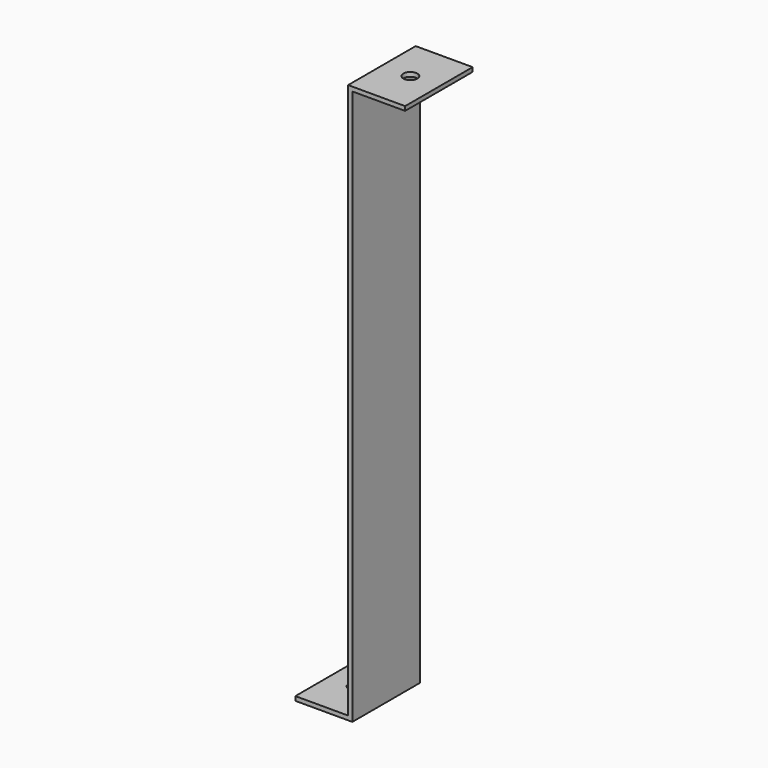
from build123d import *

# Parameters (mm, degrees)
F1_DEPTH   = 20
F4_D       = 6.6
F4_ON_F3_D = 6.6


with BuildPart() as f1:
    # F0 (on Front) → F1 (new body, symmetric)
    with BuildSketch(Plane.XZ):
        Polygon((0, -47.9232184589), (-25, -47.9232184589), (-25, -49.9232184589), (2, -49.9232184589), (2, 213.0767815411), (27, 213.0767815411), (27, 215.0767815411), (0, 215.0767815411), align=None)
    extrude(amount=F1_DEPTH, both=True)

    # F4 (through all)
    with Locations(Plane.XY.offset(215.0767815411)):
        with Locations((13.5, 0)):
            Hole(F4_D / 2)

    # F4 on F3 (through all)
    with Locations(Plane.XY.offset(-47.9232184589)):
        with Locations((-12.5, 0)):
            Hole(F4_ON_F3_D / 2)


solid = f1.part
